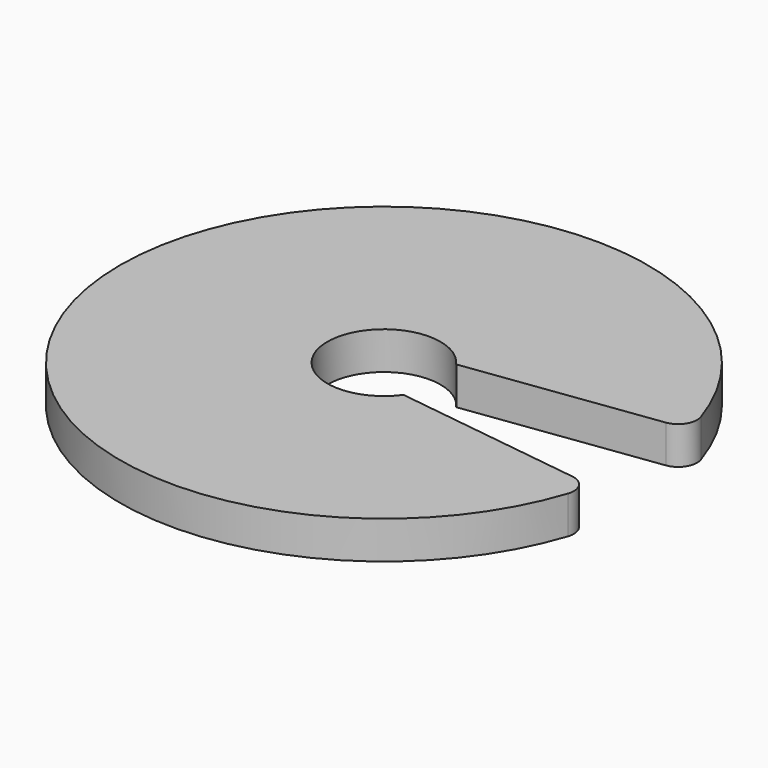
from build123d import *

# Parameters (mm, degrees)
F1_DEPTH = 2
F2_R     = 1


with BuildPart() as f1:
    # F0 (on Top) → F1 (new body)
    with BuildSketch(Plane.XY):
        with BuildLine():
            ThreePointArc((13.617544, 3.25), (-14, 0), (13.617544, -3.25))
            Line((13.617544, -3.25), (2.436699, -1.75))
            ThreePointArc((2.436699, -1.75), (-3, 0), (2.436699, 1.75))
            Line((2.436699, 1.75), (13.617544, 3.25))
        make_face()
    extrude(amount=F1_DEPTH)

    # F2
    f2_edges = [f1.edges().sort_by_distance(p)[0] for p in [
        (13.617544, 3.25, 1),
        (13.617544, -3.25, 1),
    ]]
    fillet(f2_edges, radius=F2_R)


solid = f1.part
